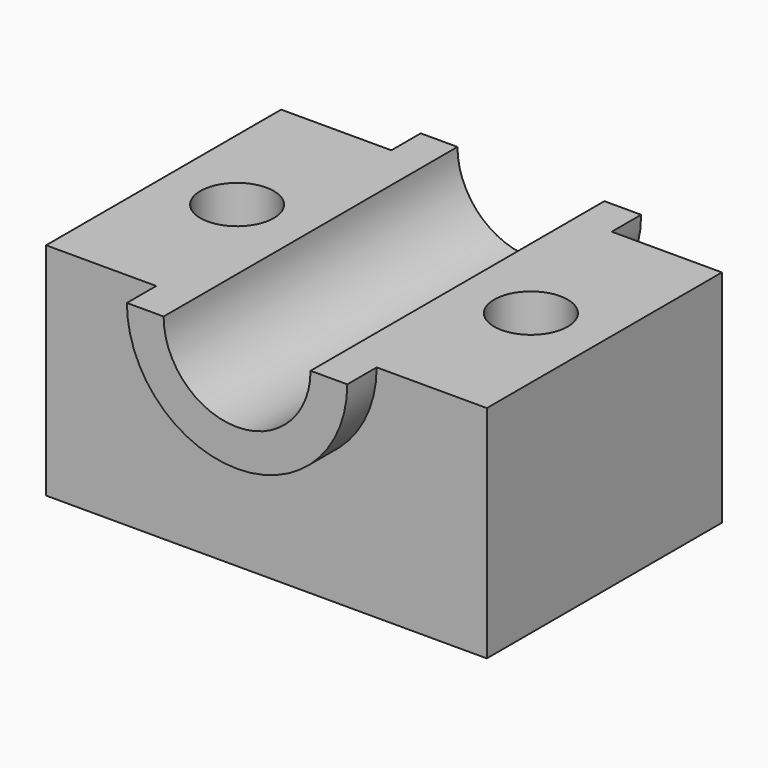
from build123d import *

# Parameters (mm, degrees)
F0_W     = 76.2
F0_H     = 50.8
F0_R     = 6.35
F1_DEPTH = 38.1
F3_DEPTH = 50.801
F4_DEPTH = 6.35


with BuildPart() as f1:
    # F0 (on Top) → F1 (new body)
    with BuildSketch(Plane.XY):
        Rectangle(F0_W, F0_H)
        with Locations((-25.4, 0)):
            Circle(F0_R, mode=Mode.SUBTRACT)
        with Locations((25.4, 0)):
            Circle(F0_R, mode=Mode.SUBTRACT)
    extrude(amount=F1_DEPTH)

    # F2 (on face) → F3 (cut, through all)
    with BuildSketch(Plane.XZ.offset(25.4)):
        with BuildLine():
            ThreePointArc((-12.7, 38.1), (0, 25.4), (12.7, 38.1))
            Line((12.7, 38.1), (-12.7, 38.1))
        make_face()
    extrude(amount=-F3_DEPTH, mode=Mode.SUBTRACT)

    # F2 (on face) → F4 (join)
    with BuildSketch(Plane.XZ.offset(25.4)):
        with BuildLine():
            ThreePointArc((-19.05, 38.1), (0, 19.05), (19.05, 38.1))
            Line((19.05, 38.1), (12.7, 38.1))
            ThreePointArc((12.7, 38.1), (0, 25.4), (-12.7, 38.1))
            Line((-12.7, 38.1), (-19.05, 38.1))
        make_face()
    extrude(amount=F4_DEPTH)

    # F5: F1 across plane


with BuildPart() as f1_1:
    add(f1.part)
    add(f1.part.mirror(Plane.XZ))


solid = f1_1.part
